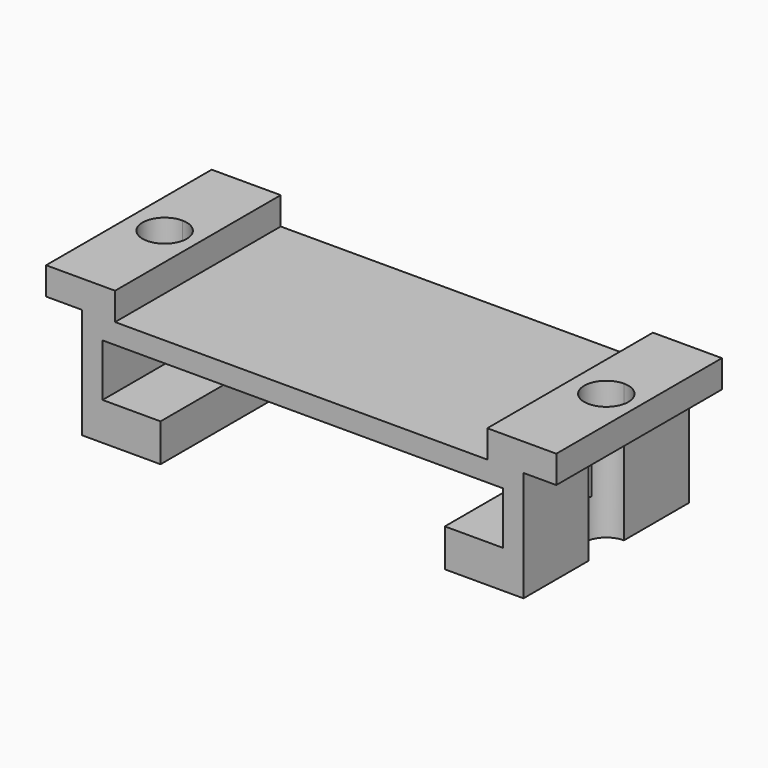
from build123d import *

# Parameters (mm, degrees)
F0_W     = 32
F0_H     = 15
F1_DEPTH = 8
F2_W     = 29
F2_H     = 3.8
F3_DEPTH = 30
F5_DEPTH = 2
F6_W     = 20.6003077328
F6_H     = 15
F7_DEPTH = 5
F8_DEPTH = 25


with BuildPart() as f1:
    # F0 (on Top) → F1 (new body)
    with BuildSketch(Plane.XY):
        Rectangle(F0_W, F0_H)
    extrude(amount=F1_DEPTH)

    # F2 (on face) → F3 (cut)
    with BuildSketch(Plane.XZ.offset(7.5)):
        with Locations((0, 4.6374863014)):
            Rectangle(F2_W, F2_H)
    extrude(amount=-F3_DEPTH, mode=Mode.SUBTRACT)

    # F4 (on face) → F5 (join)
    with BuildSketch(Plane.XY.offset(8)):
        with BuildLine():
            Line((18.3776282892, 7.5), (16, 7.5))
            Line((16, 7.5), (16, 1.6))
            ThreePointArc((16, 1.6), (17.1313708499, 1.1313708499), (17.6, 0))
            ThreePointArc((17.6, 0), (17.1313708499, -1.1313708499), (16, -1.6))
            Line((16, -1.6), (16, -7.5))
            Line((16, -7.5), (18.3776282892, -7.5))
            Line((18.3776282892, -7.5), (18.3776282892, 7.5))
        make_face()
        with BuildLine():
            Line((16, 7.5), (13.3776282892, 7.5))
            Line((13.3776282892, 7.5), (13.3776282892, -7.5))
            Line((13.3776282892, -7.5), (16, -7.5))
            Line((16, -7.5), (16, -1.6))
            ThreePointArc((16, -1.6), (14.4, 0), (16, 1.6))
            Line((16, 1.6), (16, 7.5))
        make_face()
        with BuildLine():
            Line((-16, 1.6), (-16, 7.5))
            Line((-16, 7.5), (-18.5922654346, 7.5))
            Line((-18.5922654346, 7.5), (-18.5922654346, -7.5))
            Line((-18.5922654346, -7.5), (-16, -7.5))
            Line((-16, -7.5), (-16, -1.6))
            ThreePointArc((-16, -1.6), (-17.6, 0), (-16, 1.6))
        make_face()
        with BuildLine():
            Line((-13.5922654346, -7.5), (-13.5922654346, 7.5))
            Line((-13.5922654346, 7.5), (-16, 7.5))
            Line((-16, 7.5), (-16, 1.6))
            ThreePointArc((-16, 1.6), (-14.8686291501, 1.1313708499), (-14.4, 0))
            ThreePointArc((-14.4, 0), (-14.8686291501, -1.1313708499), (-16, -1.6))
            Line((-16, -1.6), (-16, -7.5))
            Line((-16, -7.5), (-13.5922654346, -7.5))
        make_face()
    extrude(amount=F5_DEPTH)

    # F6 (on face) → F7 (cut)
    with BuildSketch(Plane(origin=(0, 0, 0), x_dir=(1, 0, 0), z_dir=(0, 0, -1))):
        Rectangle(F6_W, F6_H)
    extrude(amount=-F7_DEPTH, mode=Mode.SUBTRACT)

    # F4 (on face) → F8 (cut)
    with BuildSketch(Plane.XY.offset(8)):
        with BuildLine():
            ThreePointArc((-14.4, 0), (-14.8686291501, 1.1313708499), (-16, 1.6))
            Line((-16, 1.6), (-16, -1.6))
            ThreePointArc((-16, -1.6), (-14.8686291501, -1.1313708499), (-14.4, 0))
        make_face()
        with BuildLine():
            Line((-16, -1.6), (-16, 1.6))
            ThreePointArc((-16, 1.6), (-17.6, 0), (-16, -1.6))
        make_face()
        with BuildLine():
            Line((16, -1.6), (16, 1.6))
            ThreePointArc((16, 1.6), (14.4, 0), (16, -1.6))
        make_face()
        with BuildLine():
            ThreePointArc((17.6, 0), (17.1313708499, 1.1313708499), (16, 1.6))
            Line((16, 1.6), (16, -1.6))
            ThreePointArc((16, -1.6), (17.1313708499, -1.1313708499), (17.6, 0))
        make_face()
    extrude(amount=-F8_DEPTH, mode=Mode.SUBTRACT)


solid = f1.part
